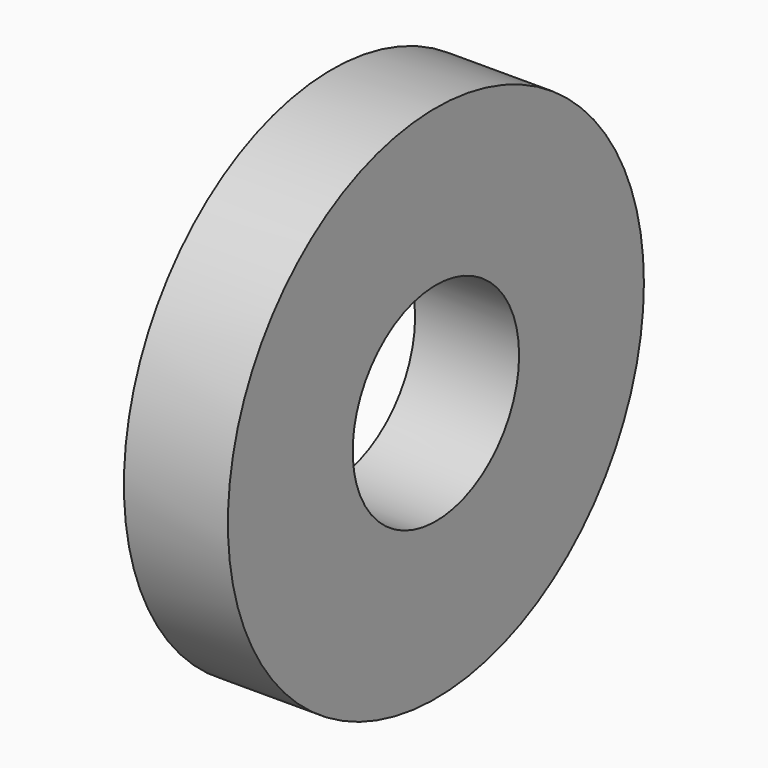
from build123d import *

# Parameters (mm, degrees)
F0_R     = 5
F0_R_2   = 2
F1_DEPTH = 2


with BuildPart() as f1:
    # F0 (on Right) → F1 (new body)
    with BuildSketch(Plane.YZ):
        Circle(F0_R)
        Circle(F0_R_2, mode=Mode.SUBTRACT)
        Circle(F0_R)
        Circle(F0_R_2, mode=Mode.SUBTRACT)
    extrude(amount=F1_DEPTH)


solid = f1.part
